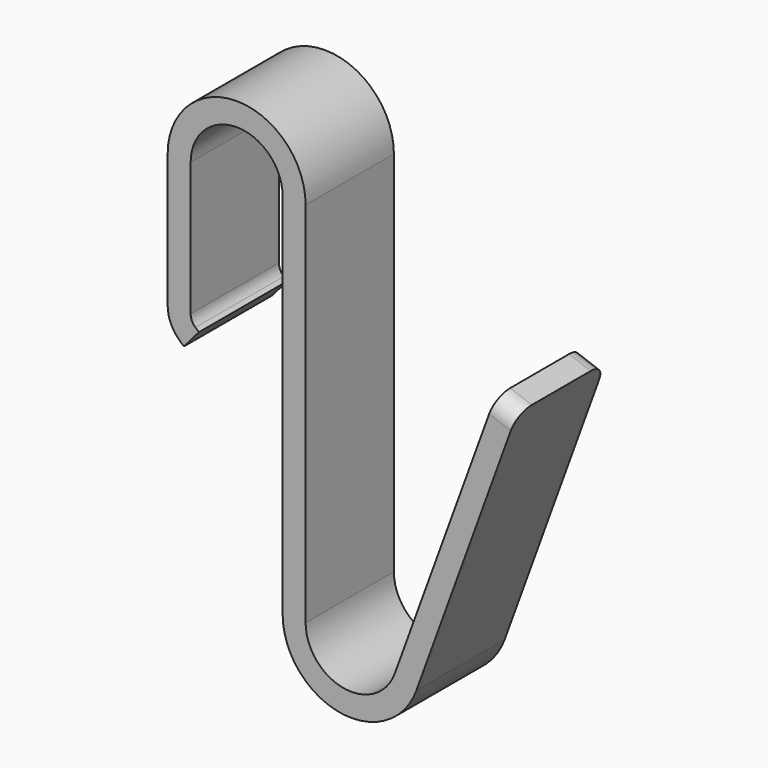
from build123d import *

# Parameters (mm, degrees)
PAD_DEPTH   = 12
FILLET_R    = 2
FILLET001_R = 2


with BuildPart() as part:
    # Sketch → Pad (new body)
    with BuildSketch(Plane.XZ):
        with BuildLine():
            Line((-35.492344, -2.005014), (-35.492339, 12.494989))
            ThreePointArc((-25.492339, 12.494987), (-30.492338, 17.494987), (-35.492339, 12.494989))
            Line((-25.492339, 12.494987), (-25.492339, -27.505013))
            ThreePointArc((-25.492339, -27.505013), (-19.294701, -34.891071), (-10.944645, -30.070164))
            Line((-10.944645, -30.070164), (0, 0))
            Line((0, 0), (-2.349232, 0.85505))
            Line((-2.349232, 0.85505), (-13.293876, -29.215114))
            ThreePointArc((-22.992339, -27.505013), (-18.86058, -32.429052), (-13.293876, -29.215114))
            Line((-22.992339, -27.505013), (-22.992339, 12.494987))
            ThreePointArc((-22.992339, 12.494987), (-30.492338, 19.994987), (-37.992339, 12.49499))
            Line((-37.992339, 12.49499), (-37.992344, -2.005013))
            ThreePointArc((-37.992344, -2.005013), (-37.628359, -3.672167), (-36.602644, -5.035911))
            Line((-36.602644, -5.035911), (-36.223782, -5.362198))
            Line((-36.223782, -5.362198), (-34.592345, -3.467888))
            Line((-34.592345, -3.467888), (-34.971207, -3.1416))
            ThreePointArc((-35.492344, -2.005014), (-35.35585, -2.630196), (-34.971207, -3.1416))
        make_face()
    extrude(amount=PAD_DEPTH)

    # Fillet
    fillet_edges = [part.edges().sort_by_distance(p)[0] for p in [
        (-1.174616, -12, 0.427525),
    ]]
    fillet(fillet_edges, radius=FILLET_R)

    # Fillet001
    fillet001_edges = [part.edges().sort_by_distance(p)[0] for p in [
        (-1.174616, 0, 0.427525),
    ]]
    fillet(fillet001_edges, radius=FILLET001_R)


solid = part.part
